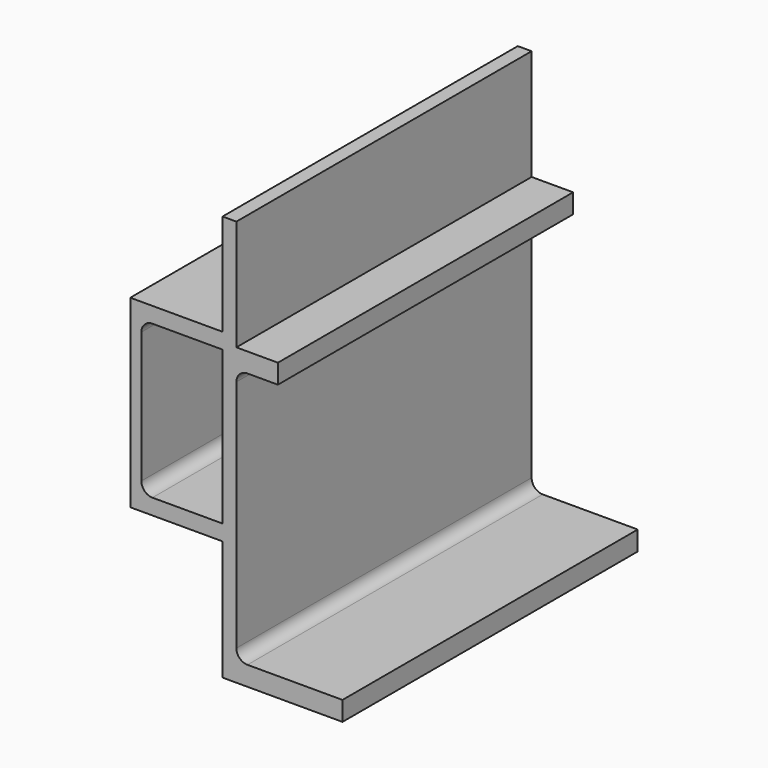
from build123d import *

# Parameters (mm, degrees)
F1_DEPTH = 200


with BuildPart() as f1:
    # F0 (on Front) → F1 (new body)
    with BuildSketch(Plane.XZ):
        with BuildLine():
            Line((-2.5, 69.5), (-2.5, 80))
            Line((-2.5, 80), (-25, 80))
            Line((-25, 80), (-32.5, 80))
            Line((-32.5, 80), (-32.5, 76.5))
            Line((-32.5, 76.5), (-32.5, -6.5))
            Line((-32.5, -6.5), (-32.5, -15))
            Line((-32.5, -15), (-32.5, -80))
            Line((-32.5, -80), (-25, -80))
            Line((-25, -80), (32.5, -80))
            Line((32.5, -80), (32.5, -69.5))
            Line((32.5, -69.5), (-19, -69.5))
            ThreePointArc((-19, -69.5), (-23.242641, -67.742641), (-25, -63.5))
            Line((-25, -63.5), (-25, 63.5))
            ThreePointArc((-25, 63.5), (-23.242641, 67.742641), (-19, 69.5))
            Line((-19, 69.5), (-2.5, 69.5))
        make_face()
        with BuildLine():
            Line((-2.5, 69.5), (-2.5, 80))
            Line((-2.5, 80), (-25, 80))
            Line((-25, 80), (-32.5, 80))
            Line((-32.5, 80), (-32.5, 76.5))
            Line((-32.5, 76.5), (-32.5, -6.5))
            Line((-32.5, -6.5), (-32.5, -15))
            Line((-32.5, -15), (-32.5, -80))
            Line((-32.5, -80), (-25, -80))
            Line((-25, -80), (32.5, -80))
            Line((32.5, -80), (32.5, -69.5))
            Line((32.5, -69.5), (-19, -69.5))
            ThreePointArc((-19, -69.5), (-23.242641, -67.742641), (-25, -63.5))
            Line((-25, -63.5), (-25, 63.5))
            ThreePointArc((-25, 63.5), (-23.242641, 67.742641), (-19, 69.5))
            Line((-19, 69.5), (-2.5, 69.5))
        make_face()
        Polygon((-32.5, 80), (-25, 80), (-25, 140), (-32.5, 140), (-32.5, 85), align=None)
        with BuildLine():
            Line((-32.5, 76.5), (-32.5, 80))
            Line((-32.5, 80), (-32.5, 85))
            Line((-32.5, 85), (-82.5, 85))
            Line((-82.5, 85), (-82.5, -15))
            Line((-82.5, -15), (-32.5, -15))
            Line((-32.5, -15), (-32.5, -6.5))
            Line((-32.5, -6.5), (-70.5, -6.5))
            ThreePointArc((-70.5, -6.5), (-74.742641, -4.742641), (-76.5, -0.5))
            Line((-76.5, -0.5), (-76.5, 70.5))
            ThreePointArc((-76.5, 70.5), (-74.742641, 74.742641), (-70.5, 76.5))
            Line((-70.5, 76.5), (-32.5, 76.5))
        make_face()
    extrude(amount=-F1_DEPTH)


solid = f1.part
